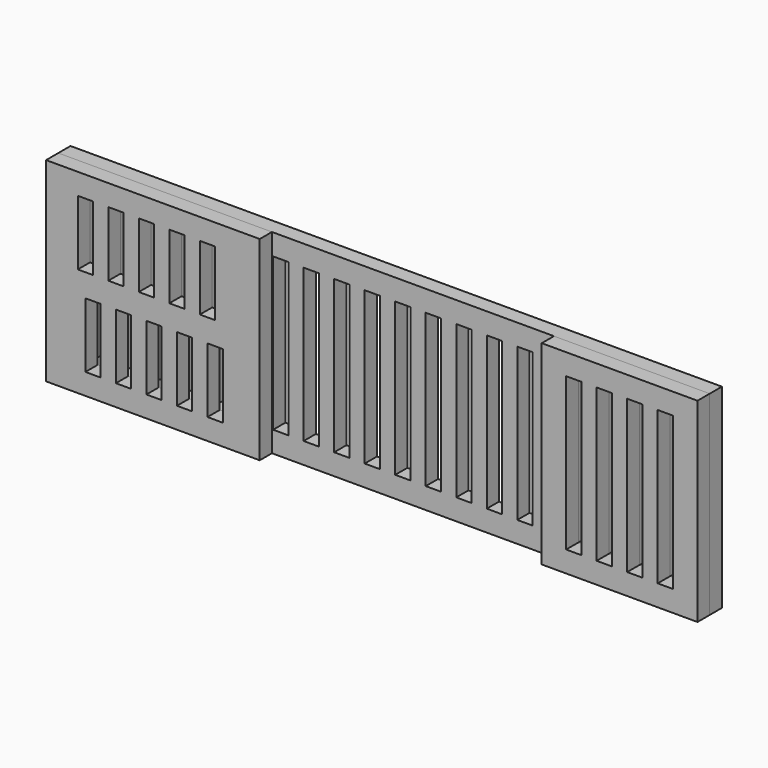
from build123d import *

# Parameters (mm, degrees)
F0_W     = 2.54
F0_H     = 25.4
F1_DEPTH = 2.54
F0_W_2   = 1.524
F2_DEPTH = 2.54
F3_W     = 35.56
F3_H     = 32.422354
F3_W_2   = 2.54
F3_H_2   = 10.795
F4_DEPTH = 2.54


with BuildPart() as f1:
    # F0 (on Front) → F1 (new body)
    with BuildSketch(Plane.XZ):
        Polygon((74.93, 12.7), (75.946, 12.7), (75.946, 16.211176), (-6.544235, 16.211176), (-6.544235, -16.211178), (75.946, -16.211178), (75.946, -12.7), (74.93, -12.7), align=None)
        Rectangle(F0_W, F0_H, mode=Mode.SUBTRACT)
        with Locations((5.08, 0)):
            Rectangle(F0_W, F0_H, mode=Mode.SUBTRACT)
        with Locations((10.16, 0)):
            Rectangle(F0_W, F0_H, mode=Mode.SUBTRACT)
        with Locations((15.24, 0)):
            Rectangle(F0_W, F0_H, mode=Mode.SUBTRACT)
        with Locations((20.32, 0)):
            Rectangle(F0_W, F0_H, mode=Mode.SUBTRACT)
        with Locations((25.4, 0)):
            Rectangle(F0_W, F0_H, mode=Mode.SUBTRACT)
        with Locations((30.48, 0)):
            Rectangle(F0_W, F0_H, mode=Mode.SUBTRACT)
        with Locations((35.56, 0)):
            Rectangle(F0_W, F0_H, mode=Mode.SUBTRACT)
        with Locations((40.64, 0)):
            Rectangle(F0_W, F0_H, mode=Mode.SUBTRACT)
        with Locations((45.72, 0)):
            Rectangle(F0_W, F0_H, mode=Mode.SUBTRACT)
        with Locations((50.8, 0)):
            Rectangle(F0_W, F0_H, mode=Mode.SUBTRACT)
        with Locations((55.88, 0)):
            Rectangle(F0_W, F0_H, mode=Mode.SUBTRACT)
        with Locations((60.96, 0)):
            Rectangle(F0_W, F0_H, mode=Mode.SUBTRACT)
        with Locations((66.04, 0)):
            Rectangle(F0_W, F0_H, mode=Mode.SUBTRACT)
        with Locations((71.12, 0)):
            Rectangle(F0_W, F0_H, mode=Mode.SUBTRACT)
        Polygon((75.946, 12.7), (77.47, 12.7), (77.47, -12.7), (75.946, -12.7), (75.946, -16.211178), (101.868942, -16.211178), (101.868942, 16.211176), (75.946, 16.211176), align=None)
        with Locations((81.28, 0)):
            Rectangle(F0_W, F0_H, mode=Mode.SUBTRACT)
        with Locations((86.36, 0)):
            Rectangle(F0_W, F0_H, mode=Mode.SUBTRACT)
        with Locations((91.44, 0)):
            Rectangle(F0_W, F0_H, mode=Mode.SUBTRACT)
        with Locations((96.52, 0)):
            Rectangle(F0_W, F0_H, mode=Mode.SUBTRACT)
    extrude(amount=-F1_DEPTH)


with BuildPart() as f2:
    # F0 (on Front) → F2 (new body)
    with BuildSketch(Plane.XZ):
        Polygon((75.946, 12.7), (77.47, 12.7), (77.47, -12.7), (75.946, -12.7), (75.946, -16.211178), (101.868942, -16.211178), (101.868942, 16.211176), (75.946, 16.211176), align=None)
        with Locations((81.28, 0)):
            Rectangle(F0_W, F0_H, mode=Mode.SUBTRACT)
        with Locations((86.36, 0)):
            Rectangle(F0_W, F0_H, mode=Mode.SUBTRACT)
        with Locations((91.44, 0)):
            Rectangle(F0_W, F0_H, mode=Mode.SUBTRACT)
        with Locations((96.52, 0)):
            Rectangle(F0_W, F0_H, mode=Mode.SUBTRACT)
        with Locations((76.708, 0)):
            Rectangle(F0_W_2, F0_H)
    extrude(amount=F2_DEPTH)


with BuildPart() as f4:
    # F3 (on Front) → F4 (new body)
    with BuildSketch(Plane.XZ):
        with Locations((11.235765, -1e-06)):
            Rectangle(F3_W, F3_H)
        with Locations((1.27, -7.3025)):
            Rectangle(F3_W_2, F3_H_2, mode=Mode.SUBTRACT)
        with Locations((6.35, -7.3025)):
            Rectangle(F3_W_2, F3_H_2, mode=Mode.SUBTRACT)
        with Locations((11.43, -7.3025)):
            Rectangle(F3_W_2, F3_H_2, mode=Mode.SUBTRACT)
        with Locations((16.51, -7.3025)):
            Rectangle(F3_W_2, F3_H_2, mode=Mode.SUBTRACT)
        with Locations((21.59, -7.3025)):
            Rectangle(F3_W_2, F3_H_2, mode=Mode.SUBTRACT)
        with Locations((0, 7.3025)):
            Rectangle(F3_W_2, F3_H_2, mode=Mode.SUBTRACT)
        with Locations((5.08, 7.3025)):
            Rectangle(F3_W_2, F3_H_2, mode=Mode.SUBTRACT)
        with Locations((10.16, 7.3025)):
            Rectangle(F3_W_2, F3_H_2, mode=Mode.SUBTRACT)
        with Locations((15.24, 7.3025)):
            Rectangle(F3_W_2, F3_H_2, mode=Mode.SUBTRACT)
        with Locations((20.32, 7.3025)):
            Rectangle(F3_W_2, F3_H_2, mode=Mode.SUBTRACT)
    extrude(amount=F4_DEPTH)


solid = Compound([f1.part, f2.part, f4.part])
